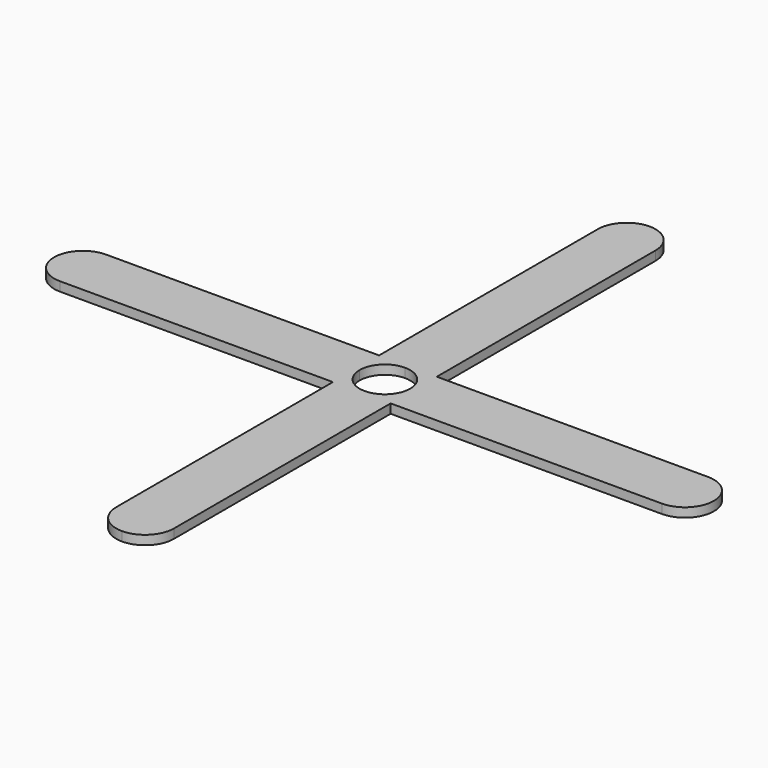
from build123d import *

# Parameters (mm, degrees)
F1_DEPTH = 5.08


with BuildPart() as f1:
    # F0 (on Top) → F1 (new body)
    with BuildSketch(Plane.XY):
        with BuildLine():
            ThreePointArc((-0.0005577104, 13.9999719889), (9.8992779553, 9.899672316), (13.999972, 0))
            ThreePointArc((13.999972, 0), (13.9999715548, -0.0035306699), (13.9999702192, -0.0070613395))
            Line((13.9999702192, -0.0070613395), (16.0020296353, -0.0069773903))
            Line((16.0020296353, -0.0069773903), (16.0013586484, 15.9950225957))
            Line((16.0013586484, 15.9950225957), (-0.0006413376, 15.9943516088))
            Line((-0.0006413376, 15.9943516088), (-0.0005577104, 13.9999719889))
        make_face()
        with BuildLine():
            ThreePointArc((-13.9999695778, -0.0082354173), (-9.9025834897, 9.8963658093), (-0.0005577104, 13.9999719889))
            Line((-0.0005577104, 13.9999719889), (-0.0006413376, 15.9943516088))
            Line((-0.0006413376, 15.9943516088), (-16.0026413235, 15.9936806219))
            Line((-16.0026413235, 15.9936806219), (-16.0019703366, -0.0083193641))
            Line((-16.0019703366, -0.0083193641), (-13.9999695778, -0.0082354173))
        make_face()
        with BuildLine():
            Line((16.0020296353, -0.0069773903), (13.9999702192, -0.0070613395))
            ThreePointArc((13.9999702192, -0.0070613395), (9.8971962336, -9.9017535171), (0.0006163676, -13.9999719864))
            Line((0.0006163676, -13.9999719864), (0.0007006362, -16.0096483631))
            Line((0.0007006362, -16.0096483631), (16.0027006222, -16.0089773762))
            Line((16.0027006222, -16.0089773762), (16.0020296353, -0.0069773903))
        make_face()
        with BuildLine():
            ThreePointArc((0.0006163676, -13.9999719864), (-9.8963450643, -9.9026042216), (-13.9999695778, -0.0082354173))
            Line((-13.9999695778, -0.0082354173), (-16.0019703366, -0.0083193641))
            Line((-16.0019703366, -0.0083193641), (-16.0012993497, -16.01031935))
            Line((-16.0012993497, -16.01031935), (0.0007006362, -16.0096483631))
            Line((0.0007006362, -16.0096483631), (0.0006163676, -13.9999719864))
        make_face()
        with BuildLine():
            Line((-16.0026413235, 15.9936806219), (-0.0006413376, 15.9943516088))
            Line((-0.0006413376, 15.9943516088), (-0.0076684216, 183.5794421849))
            ThreePointArc((-0.0076684216, 183.5794421849), (-11.3225945967, 178.8920904422), (-16.0089974207, 167.5767712121))
            Line((-16.0089974207, 167.5767712121), (-16.0026413235, 15.9936806219))
        make_face()
        with BuildLine():
            Line((-0.0076684216, 183.5794421849), (-0.0006413376, 15.9943516088))
            Line((-0.0006413376, 15.9943516088), (16.0013586484, 15.9950225957))
            Line((16.0013586484, 15.9950225957), (15.9950025512, 167.5781131858))
            ThreePointArc((15.9950025512, 167.5781131858), (11.3076508085, 178.8930393609), (-0.0076684216, 183.5794421849))
        make_face()
        Polygon((166.3999998453, -0.0006709869), (16.0020296353, -0.0069773903), (16.0027006222, -16.0089773762), (166.4006708322, -16.0026709728), align=None)
        Polygon((16.0013586484, 15.9950225957), (16.0020296353, -0.0069773903), (166.3999998453, -0.0006709869), (166.3993288584, 16.001328999), align=None)
        with BuildLine():
            Line((-183.3579998473, -0.0153368433), (-16.0019703366, -0.0083193641))
            Line((-16.0019703366, -0.0083193641), (-16.0026413235, 15.9936806219))
            Line((-16.0026413235, 15.9936806219), (-167.3566708482, 15.9873341296))
            ThreePointArc((-167.3566708482, 15.9873341296), (-178.6715970233, 11.2999823869), (-183.3579998473, -0.0153368433))
        make_face()
        with BuildLine():
            Line((-16.0012993497, -16.01031935), (-16.0019703366, -0.0083193641))
            Line((-16.0019703366, -0.0083193641), (-183.3579998473, -0.0153368433))
            ThreePointArc((-183.3579998473, -0.0153368433), (-178.6706481045, -11.3302630183), (-167.3553288744, -16.0166658423))
            Line((-167.3553288744, -16.0166658423), (-16.0012993497, -16.01031935))
        make_face()
        Polygon((16.0027006222, -16.0089773762), (0.0007006362, -16.0096483631), (0.0069974347, -166.1785575076), (16.0089974207, -166.1778865208), align=None)
        Polygon((0.0069974347, -166.1785575076), (0.0007006362, -16.0096483631), (-16.0012993497, -16.01031935), (-15.9950025512, -166.1792284945), align=None)
        with BuildLine():
            Line((166.3993288584, 16.001328999), (166.3999998453, -0.0006709869))
            Line((166.3999998453, -0.0006709869), (182.4019998312, 0))
            ThreePointArc((182.4019998312, 0), (177.7146480885, 11.3149261751), (166.3993288584, 16.001328999))
        make_face()
        with BuildLine():
            Line((182.4019998312, 0), (166.3999998453, -0.0006709869))
            Line((166.3999998453, -0.0006709869), (166.4006708322, -16.0026709728))
            ThreePointArc((166.4006708322, -16.0026709728), (177.7155970072, -11.3153192301), (182.4019998312, 0))
        make_face()
        with BuildLine():
            Line((16.0089974207, -166.1778865208), (0.0069974347, -166.1785575076))
            Line((0.0069974347, -166.1785575076), (0.0076684216, -182.1805574936))
            ThreePointArc((0.0076684216, -182.1805574936), (11.3225945967, -177.4932057509), (16.0089974207, -166.1778865208))
        make_face()
        with BuildLine():
            Line((0.0076684216, -182.1805574936), (0.0069974347, -166.1785575076))
            Line((0.0069974347, -166.1785575076), (-15.9950025512, -166.1792284945))
            ThreePointArc((-15.9950025512, -166.1792284945), (-11.3076508085, -177.4941546696), (0.0076684216, -182.1805574936))
        make_face()
    extrude(amount=F1_DEPTH)


solid = f1.part
